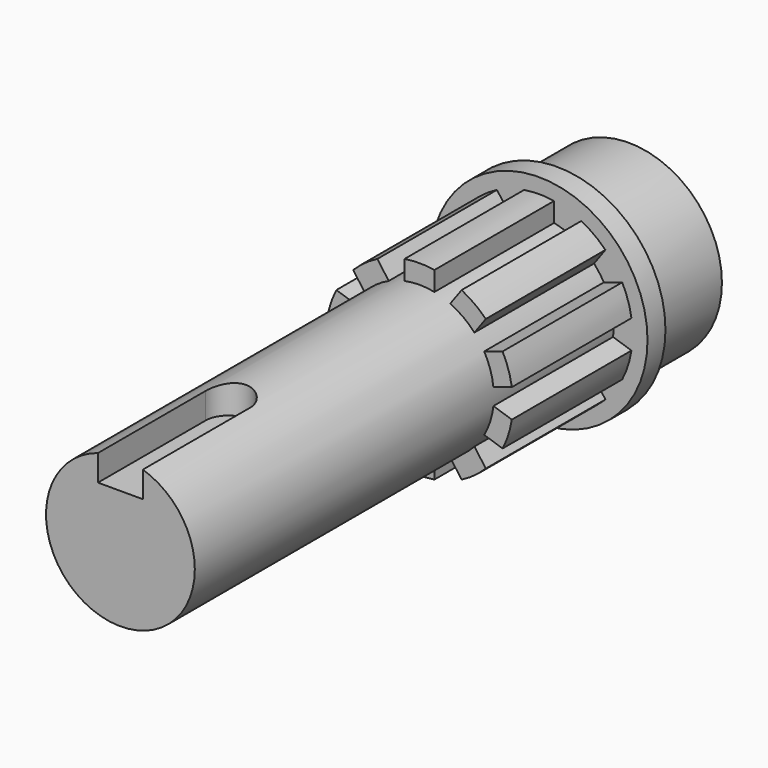
from build123d import *

# Parameters (mm, degrees)
F0_R      = 12.45
F1_DEPTH  = 12
F2_R      = 14.5
F3_DEPTH  = 3
F4_R      = 9.95
F5_DEPTH  = 70
F8_DEPTH  = 12
F10_DEPTH = 20


with BuildPart() as f1:
    # F0 (on Front) → F1 (new body)
    with BuildSketch(Plane.XZ):
        Circle(F0_R)
    extrude(amount=-F1_DEPTH)

    # F2 (on Front) → F3 (join)
    with BuildSketch(Plane.XZ):
        Circle(F2_R)
    extrude(amount=F3_DEPTH)

    # F4 (on face) → F5 (join)
    with BuildSketch(Plane.XZ.offset(3)):
        Circle(F4_R)
    extrude(amount=F5_DEPTH)

    # F7 (on offset) → F8 (cut)
    with BuildSketch(Plane.XY.offset(6)):
        with BuildLine():
            Line((-3, -55), (-3, -107.7152226879))
            Line((-3, -107.7152226879), (3, -107.7152226879))
            Line((3, -107.7152226879), (3, -55))
            ThreePointArc((3, -55), (0, -52), (-3, -55))
        make_face()
    extrude(amount=F8_DEPTH, mode=Mode.SUBTRACT)

    # F9 (on face) → F10 (join)
    with BuildSketch(Plane.XZ.offset(3)):
        with BuildLine():
            Line((-8.8706942802, 8.8068599959), (-7.3471313431, 6.7098555146))
            ThreePointArc((-7.3471313431, 6.7098555146), (-5.8484632603, 8.049719094), (-4.1110633656, 9.0609965238))
            Line((-4.1110633656, 9.0609965238), (-5.6346263027, 11.1580010051))
            ThreePointArc((-5.6346263027, 11.1580010051), (-7.3473156537, 10.1127124297), (-8.8706942802, 8.8068599959))
        make_face()
        with BuildLine():
            Line((-2, 12.3389626793), (-2, 9.7469225913))
            ThreePointArc((-2, 9.7469225913), (0, 9.95), (2, 9.7469225913))
            Line((2, 9.7469225913), (2, 12.3389626793))
            ThreePointArc((2, 12.3389626793), (0, 12.5), (-2, 12.3389626793))
        make_face()
        with BuildLine():
            ThreePointArc((4.1110633656, 9.0609965238), (5.8484632603, 8.049719094), (7.3471313431, 6.7098555146))
            Line((7.3471313431, 6.7098555146), (8.8706942802, 8.8068599959))
            ThreePointArc((8.8706942802, 8.8068599959), (7.3473156537, 10.1127124297), (5.6346263027, 11.1580010051))
            Line((5.6346263027, 11.1580010051), (4.1110633656, 9.0609965238))
        make_face()
        with BuildLine():
            ThreePointArc((8.6518402555, 4.9140777561), (9.4630123371, 3.074719094), (9.887908233, 1.109851691))
            Line((9.887908233, 1.109851691), (12.3530848492, 1.9108361283))
            ThreePointArc((12.3530848492, 1.9108361283), (11.8882064537, 3.8627124297), (11.1170168717, 5.7150621934))
            Line((11.1170168717, 5.7150621934), (8.6518402555, 4.9140777561))
        make_face()
        with BuildLine():
            ThreePointArc((9.887908233, -1.109851691), (9.4630123371, -3.074719094), (8.6518402555, -4.9140777561))
            Line((8.6518402555, -4.9140777561), (11.1170168717, -5.7150621934))
            ThreePointArc((11.1170168717, -5.7150621934), (11.8882064537, -3.8627124297), (12.3530848492, -1.9108361283))
            Line((12.3530848492, -1.9108361283), (9.887908233, -1.109851691))
        make_face()
        with BuildLine():
            Line((-12.3530848492, 1.9108361283), (-9.887908233, 1.109851691))
            ThreePointArc((-9.887908233, 1.109851691), (-9.4630123371, 3.074719094), (-8.6518402555, 4.9140777561))
            Line((-8.6518402555, 4.9140777561), (-11.1170168717, 5.7150621934))
            ThreePointArc((-11.1170168717, 5.7150621934), (-11.8882064537, 3.8627124297), (-12.3530848492, 1.9108361283))
        make_face()
        with BuildLine():
            Line((-11.1170168717, -5.7150621934), (-8.6518402555, -4.9140777561))
            ThreePointArc((-8.6518402555, -4.9140777561), (-9.4630123371, -3.074719094), (-9.887908233, -1.109851691))
            Line((-9.887908233, -1.109851691), (-12.3530848492, -1.9108361283))
            ThreePointArc((-12.3530848492, -1.9108361283), (-11.8882064537, -3.8627124297), (-11.1170168717, -5.7150621934))
        make_face()
        with BuildLine():
            Line((-5.6346263027, -11.1580010051), (-4.1110633656, -9.0609965238))
            ThreePointArc((-4.1110633656, -9.0609965238), (-5.8484632603, -8.049719094), (-7.3471313431, -6.7098555146))
            Line((-7.3471313431, -6.7098555146), (-8.8706942802, -8.8068599959))
            ThreePointArc((-8.8706942802, -8.8068599959), (-7.3473156537, -10.1127124297), (-5.6346263027, -11.1580010051))
        make_face()
        with BuildLine():
            Line((-2, -9.7469225913), (-2, -12.3389626793))
            ThreePointArc((-2, -12.3389626793), (0, -12.5), (2, -12.3389626793))
            Line((2, -12.3389626793), (2, -9.7469225913))
            ThreePointArc((2, -9.7469225913), (0, -9.95), (-2, -9.7469225913))
        make_face()
        with BuildLine():
            ThreePointArc((7.3471313431, -6.7098555146), (5.8484632603, -8.049719094), (4.1110633656, -9.0609965238))
            Line((4.1110633656, -9.0609965238), (5.6346263027, -11.1580010051))
            ThreePointArc((5.6346263027, -11.1580010051), (7.3473156537, -10.1127124297), (8.8706942802, -8.8068599959))
            Line((8.8706942802, -8.8068599959), (7.3471313431, -6.7098555146))
        make_face()
    extrude(amount=F10_DEPTH)


solid = f1.part
